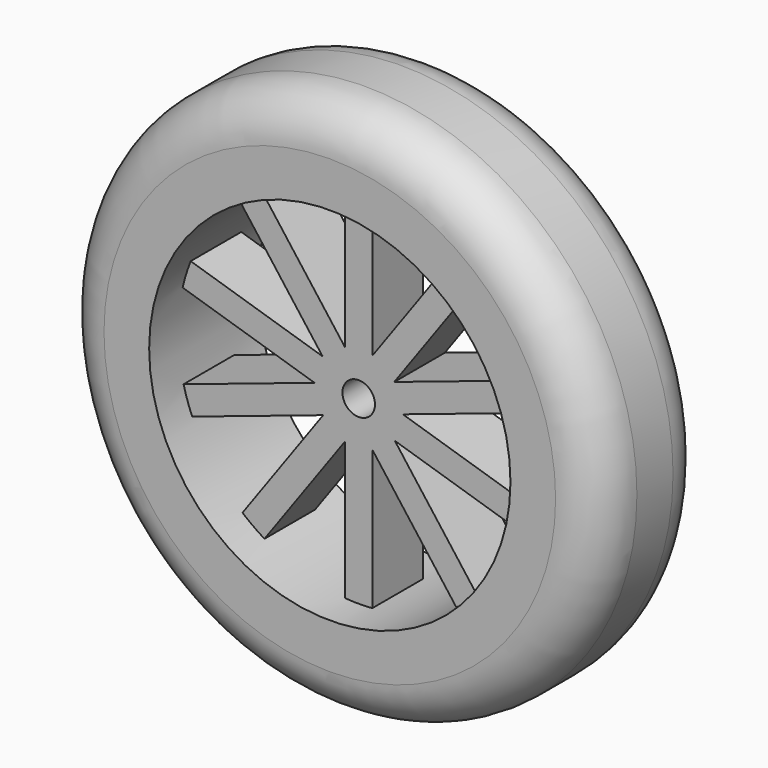
from build123d import *

# Parameters (mm, degrees)
F2_DEPTH = 3.5
F0_R     = 30
F0_R_2   = 20
F3_DEPTH = 7.5
F4_R     = 4.000000066
F4_R_2   = 1.8
F5_DEPTH = 3.5
F6_R     = 5
F7_R     = 5


with BuildPart() as f2:
    # F1 (on Front) → F2 (new body, symmetric)
    with BuildSketch(Plane.XZ):
        Polygon((-1.5, -23.2615247369), (1.5, -23.2615247369), (1.5, -4.4813106249), (0.0279501338, -2.5287712352), (-1.5, -4.6514858813), align=None)
        Polygon((0.0279501338, -2.5287712352), (1.5, -4.4813106249), (1.5, -2.0360415442), (0.5866393147, -1.7526086625), align=None)
        Polygon((1.5, -2.0360415442), (1.5, -4.4813106249), (12.8056726102, -19.4772503728), (15.2011628307, -17.6712529742), (3.9979355773, -2.8111976138), align=None)
        Polygon((-12.3720384359, -19.755535883), (-1.5, -4.6514858813), (-1.5, -2.0838847412), (-3.9348229661, -2.8988772188), (-14.806861402, -18.0029272205), align=None)
        Polygon((-1.5, -2.0838847412), (-1.5, -4.6514858813), (0.0279501338, -2.5287712352), (-0.5477580826, -1.7651469889), align=None)
        Polygon((1.5, -1.0797142258), (1.5, -2.0360415442), (3.9979355773, -2.8111976138), (2.4522419174, -0.7609764734), align=None)
        Polygon((-3.9348229661, -2.8988772188), (-1.5, -2.0838847412), (-1.5, -1.1050855059), (-2.4348229661, -0.8149924776), align=None)
        Polygon((2.4522419174, -0.7609764734), (3.9979355773, -2.8111976138), (21.7718478308, -8.3267745926), (22.660977137, -5.4615609746), (4.8870648835, 0.0540160042), align=None)
        Polygon((-21.5824822139, -8.8059635798), (-3.9348229661, -2.8988772188), (-2.4348229661, -0.8149924776), (-4.8870648835, -0.0540160042), (-22.5347241314, -5.9611023652), align=None)
        Polygon((1.8630056265, 0.0205915252), (2.4522419174, -0.7609764734), (4.8870648835, 0.0540160042), (2.4348229661, 0.8149924776), align=None)
        Polygon((-4.8870648835, -0.0540160042), (-2.4348229661, -0.8149924776), (-1.8630056265, -0.0205915252), (-2.4522419174, 0.7609764734), align=None)
        Polygon((2.4348229661, 0.8149924776), (4.8870648835, 0.0540160042), (22.5347241314, 5.9611023652), (21.5824822139, 8.8059635798), (3.9348229661, 2.8988772188), align=None)
        Polygon((-22.660977137, 5.4615609746), (-4.8870648835, -0.0540160042), (-2.4522419174, 0.7609764734), (-3.9979355773, 2.8111976138), (-21.7718478308, 8.3267745926), align=None)
        Polygon((1.5, 2.0838847412), (1.5, 1.1050855059), (2.4348229661, 0.8149924776), (3.9348229661, 2.8988772188), align=None)
        Polygon((-2.4522419174, 0.7609764734), (-1.5, 1.0797142258), (-1.5, 2.0360415442), (-3.9979355773, 2.8111976138), align=None)
        Polygon((0.5477580826, 1.7651469889), (1.5, 2.0838847412), (1.5, 4.6514858813), (-0.0279501338, 2.5287712352), align=None)
        Polygon((1.5, 4.6514858813), (1.5, 2.0838847412), (3.9348229661, 2.8988772188), (14.806861402, 18.0029272205), (12.3720384359, 19.755535883), align=None)
        Polygon((-3.9979355773, 2.8111976138), (-1.5, 2.0360415442), (-1.5, 4.4813106249), (-12.8056726102, 19.4772503728), (-15.2011628307, 17.6712529742), align=None)
        Polygon((-1.5, 4.4813106249), (-1.5, 2.0360415442), (-0.5866393147, 1.7526086625), (-0.0279501338, 2.5287712352), align=None)
        Polygon((-0.0279501338, 2.5287712352), (1.5, 4.6514858813), (1.5, 23.2615247369), (-1.5, 23.2615247369), (-1.5, 4.4813106249), align=None)
    extrude(amount=F2_DEPTH, both=True)

    # F0 (on Front) → F3 (join, symmetric)
    with BuildSketch(Plane.XZ):
        Circle(F0_R)
        Circle(F0_R_2, mode=Mode.SUBTRACT)
    extrude(amount=F3_DEPTH, both=True)

    # F4 (on Front) → F5 (join, symmetric)
    with BuildSketch(Plane.XZ):
        Circle(F4_R)
        Circle(F4_R_2, mode=Mode.SUBTRACT)
    extrude(amount=F5_DEPTH, both=True)

    # F6
    f6_edges = [f2.edges().sort_by_distance(p)[0] for p in [
        (-30, -7.5, 0),
    ]]
    fillet(f6_edges, radius=F6_R)

    # F7
    f7_edges = [f2.edges().sort_by_distance(p)[0] for p in [
        (-30, 7.5, 0),
    ]]
    fillet(f7_edges, radius=F7_R)


solid = f2.part
